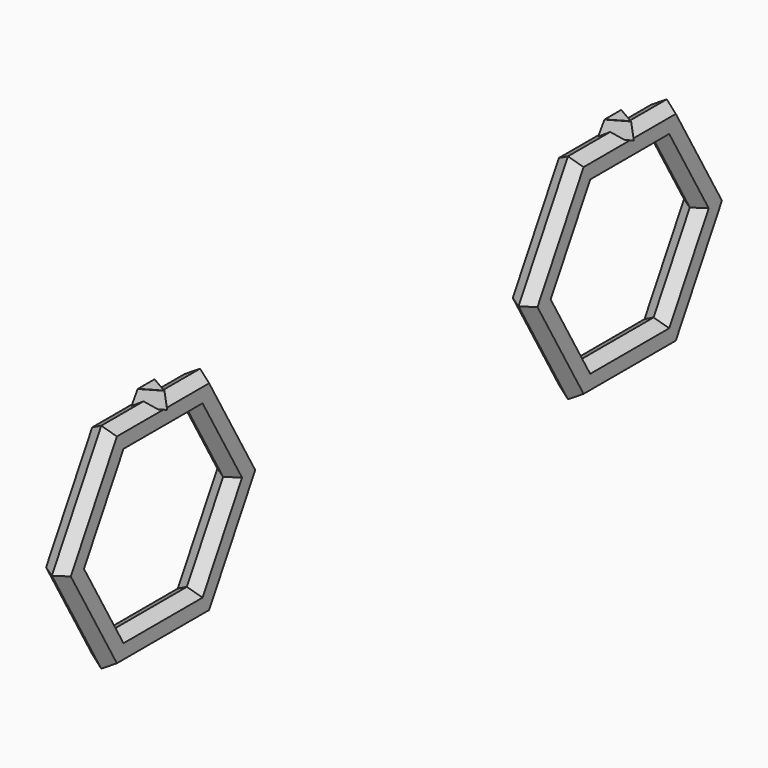
from build123d import *

# Parameters (mm, degrees)
F8_R = 0.0254


with BuildPart() as f2:
    # F2: sweep along a path in F1
    with BuildLine(Plane.YZ) as f2_path:
        Line((-5.499261314, 0), (-10.9985226281, 9.525))
        Line((-10.9985226281, 9.525), (-5.499261314, 19.05))
        Line((-5.499261314, 19.05), (5.499261314, 19.05))
        Line((5.499261314, 19.05), (10.9985226281, 9.525))
        Line((10.9985226281, 9.525), (5.499261314, 0))
        Line((5.499261314, 0), (-5.499261314, 0))
    # F0 (on Front) → F2 (sweep)
    with BuildSketch(Plane.XZ):
        Polygon((1.27, -0.7332348419), (1.27, 0.7332348419), (0, 1.4664696837), (-1.27, 0.7332348419), (-1.27, -0.7332348419), (0, -1.4664696837), align=None)
    sweep(path=f2_path.line, transition=Transition.RIGHT)

    # F6 (on offset) → F7 section 0
    with BuildSketch(Plane.XY.offset(21.5646)):
        Polygon((1.4100511801, 0), (-0.4596976667, 1.0795), (-0.4596976667, -1.0795), align=None)
    # F4 (on offset) → F7 section 1
    with BuildSketch(Plane.XY.offset(19.9136)):
        Polygon((-0.8466666667, 1.4664696837), (-0.8466666667, -1.4664696837), (1.6933333333, 0), align=None)
    loft()

    # F8
    f8_edges = [f2.edges().sort_by_distance(p)[0] for p in [
        (0.475177, 0.53975, 21.5646),
        (-0.459698, 0, 21.5646),
        (0.475177, -0.53975, 21.5646),
    ]]
    fillet(f8_edges, radius=F8_R)


with BuildPart() as f2_1:
    # F9: moved
    add(f2.part.moved(Location((0, -29.972, 0))))


with BuildPart() as f10_1:
    # F10: instance of F2
    add(f2_1.part.mirror(Plane.XZ))


solid = Compound([f2_1.part, f10_1.part])
